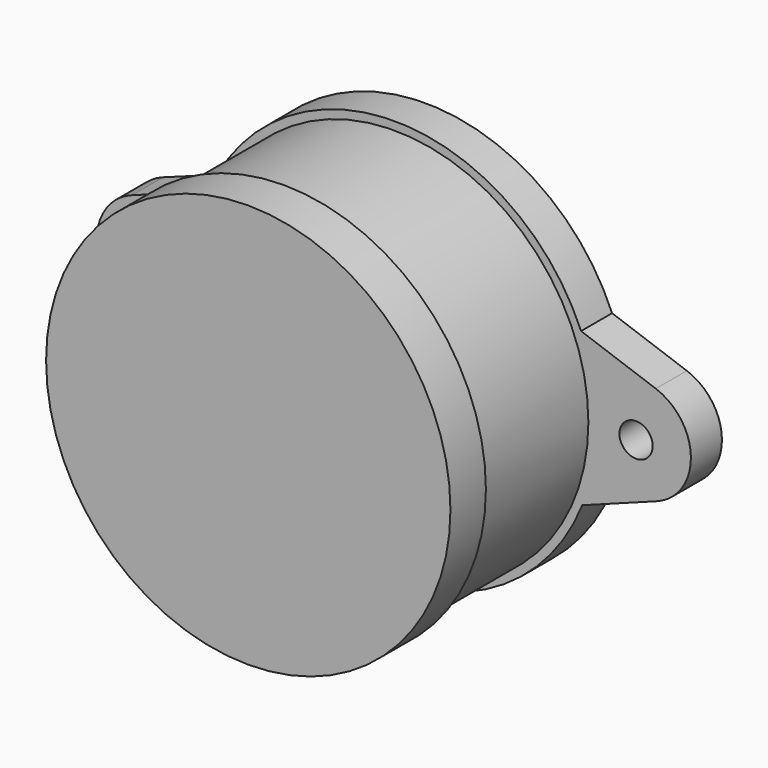
from build123d import *

# Parameters (mm, degrees)
SKETCH051_R             = 1.5
PAD022_DEPTH            = 3.5
SKETCH052_R             = 17.5
PAD003_DEPTH            = 12.5
SKETCH053_R             = 18.25
PAD004_DEPTH            = 4
SKETCH005_R             = 8
PAD023_DEPTH            = 2
SKETCH006_R             = 2.5
PAD021_DEPTH            = 12
BODY024_PLACEMENT_ANGLE = 90


with BuildPart() as part:
    # Sketch051 → Pad022 (new body)
    with BuildSketch(Plane.XY):
        with BuildLine():
            ThreePointArc((-16.780137, -7.175619), (0.077574, -18.249835), (16.840532, -7.032709))
            Line((23.588818, -4.651296), (16.840532, -7.032709))
            ThreePointArc((23.588818, -4.651296), (26.754582, -0.217457), (23.665308, 4.270011))
            Line((16.947438, 6.77103), (23.665308, 4.270011))
            ThreePointArc((16.947438, 6.77103), (0.049146, 18.249934), (-16.910725, 6.862207))
            Line((-16.910725, 6.862207), (-23.684267, 4.419805))
            ThreePointArc((-23.684267, 4.419805), (-26.870918, -0.10661), (-23.703302, -4.646365))
            Line((-23.703302, -4.646365), (-16.780137, -7.175619))
        make_face()
        with Locations((-22.015205, 0)):
            Circle(SKETCH051_R, mode=Mode.SUBTRACT)
        with Locations((21.805187, 0)):
            Circle(SKETCH051_R, mode=Mode.SUBTRACT)
    extrude(amount=PAD022_DEPTH)

    # Sketch052 (on Face11 of Pad022) → Pad003 (join)
    with BuildSketch(Plane(origin=(0, 0, 0), x_dir=(1, 0, 0), z_dir=(0, 0, -1))):
        Circle(SKETCH052_R)
    extrude(amount=PAD003_DEPTH)

    # Sketch053 (on Face14 of Pad003) → Pad004 (join)
    with BuildSketch(Plane(origin=(0, 0, -12.5), x_dir=(1, 0, 0), z_dir=(0, 0, -1))):
        Circle(SKETCH053_R)
    extrude(amount=PAD004_DEPTH)

    # Sketch005 (on Face16 of Pad004) → Pad023 (join)
    with BuildSketch(Plane.XY.offset(3.5)):
        Circle(SKETCH005_R)
    extrude(amount=PAD023_DEPTH)

    # Sketch006 (on Face18 of Pad023) → Pad021 (join)
    with BuildSketch(Plane.XY.offset(5.5)):
        Circle(SKETCH006_R)
    extrude(amount=PAD021_DEPTH)


with BuildPart() as part_1:
    # Body024 placement: moved
    add(part.part.moved(Location((0, 9.5, 80.3))).rotate(Axis((0, 9.5, 80.3), (-1, 0, 0)), BODY024_PLACEMENT_ANGLE))


solid = part_1.part
